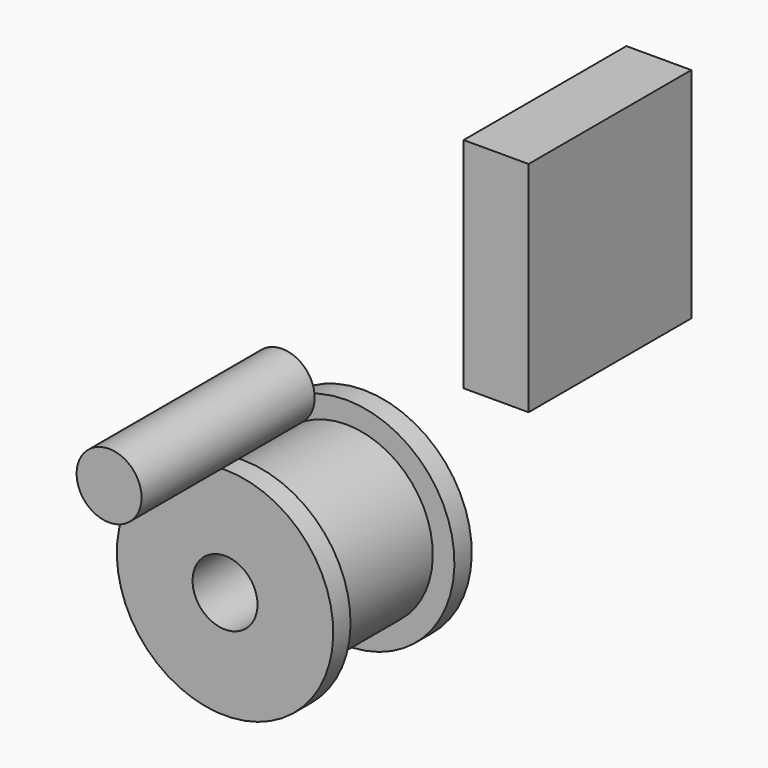
from build123d import *

# Parameters (mm, degrees)
F0_R     = 15
F1_DEPTH = 100
F4_R     = 15
F5_DEPTH = 80
F6_W     = 94
F6_H     = 101
F7_DEPTH = 30


with BuildPart() as f1:
    # F0 (on Front) → F1 (new body)
    with BuildSketch(Plane.XZ):
        with Locations((23.497986, 10.433468)):
            Circle(F0_R)
    extrude(amount=F1_DEPTH)


with BuildPart() as f3:
    # F2 (on Right) → F3 (revolve)
    with BuildSketch(Plane.YZ):
        Polygon((-3.658543, -29.907176), (-3.658543, -79.907176), (76.341457, -79.907176), (76.341457, -29.907176), (66.341457, -29.907176), (66.341457, -39.907176), (6.341457, -39.907176), (6.341457, -29.907176), align=None)
    revolve(axis=Axis((0, 36.341457, -79.907176), (0, -1, 0)))

    # F4 (on face) → F5 (cut)
    with BuildSketch(Plane.XZ.offset(3.658543)):
        with Locations((0, -79.907176)):
            Circle(F4_R)
    extrude(amount=-F5_DEPTH, mode=Mode.SUBTRACT)


with BuildPart() as f7:
    # F6 (on Right) → F7 (new body)
    with BuildSketch(Plane.YZ):
        with Locations((181.160161, -2.306005)):
            Rectangle(F6_W, F6_H)
    extrude(amount=F7_DEPTH)


solid = Compound([f1.part, f3.part, f7.part])
